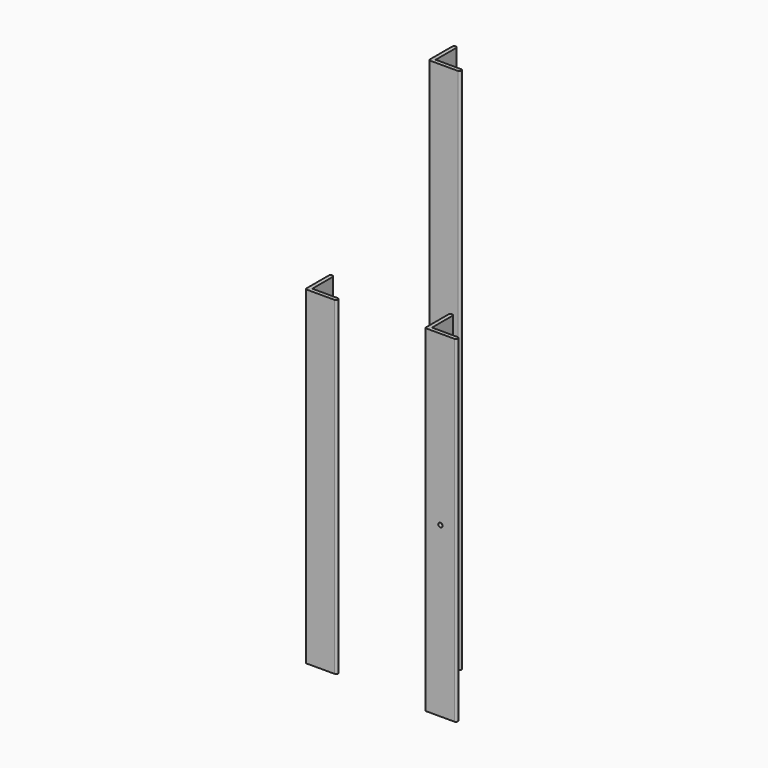
from build123d import *

# Parameters (mm, degrees)
F1_DEPTH = 855
F2_DEPTH = 546.55
F3_DEPTH = 533.85
F4_R     = 3.5
F5_DEPTH = 6.35
F7_DEPTH = 6.35
F8_R     = 3
F8_2_R   = 3
F8_3_R   = 3
F9_R     = 2
F9_2_R   = 2
F9_3_R   = 2


with BuildPart() as f1:
    # F0 (on Top) → F1 (new body)
    with BuildSketch(Plane.XY):
        Polygon((0, 50.8), (0, 0), (50.8, 0), (50.8, 6.35), (6.35, 6.35), (6.35, 50.8), align=None)
    extrude(amount=F1_DEPTH)

    # F8#3
    f8_3_edges = [f1.edges().sort_by_distance(p)[0] for p in [
        (6.35, 50.8, 427.5),
        (0, 50.8, 427.5),
        (50.8, 6.35, 427.5),
        (50.8, 0, 427.5),
    ]]
    fillet(f8_3_edges, radius=F8_3_R)

    # F9#3
    f9_3_edges = [f1.edges().sort_by_distance(p)[0] for p in [
        (0, 0, 427.5),
    ]]
    fillet(f9_3_edges, radius=F9_3_R)


with BuildPart() as f2:
    # F0 (on Top) → F2 (new body)
    with BuildSketch(Plane.XY):
        Polygon((85.049236, -62.953019), (85.049236, -113.753019), (135.849236, -113.753019), (135.849236, -107.403019), (91.399236, -107.403019), (91.399236, -62.953019), align=None)
    extrude(amount=F2_DEPTH)

    # F4 (on face) → F5 (cut, through all)
    with BuildSketch(Plane(origin=(85.049236, 0, 0), x_dir=(0, -1, 0), z_dir=(-1, 0, 0))):
        with Locations((88.753019, 273.275)):
            Circle(F4_R)
    extrude(amount=-F5_DEPTH, mode=Mode.SUBTRACT)

    # F6 (on face) → F7 (cut, through all)
    with BuildSketch(Plane.XZ.offset(113.753019)):
        with BuildLine():
            ThreePointArc((113.549236, 273.275), (110.049236, 276.775), (106.549236, 273.275))
            ThreePointArc((106.549236, 273.275), (110.049236, 269.775), (113.549236, 273.275))
        make_face()
    extrude(amount=-F7_DEPTH, mode=Mode.SUBTRACT)

    # F8#2
    f8_2_edges = [f2.edges().sort_by_distance(p)[0] for p in [
        (135.849236, -113.753019, 273.275),
        (85.049236, -62.953019, 273.275),
        (91.399236, -62.953019, 273.275),
        (135.849236, -107.403019, 273.275),
    ]]
    fillet(f8_2_edges, radius=F8_2_R)

    # F9#2
    f9_2_edges = [f2.edges().sort_by_distance(p)[0] for p in [
        (85.049236, -113.753019, 273.275),
    ]]
    fillet(f9_2_edges, radius=F9_2_R)


with BuildPart() as f3:
    # F0 (on Top) → F3 (new body)
    with BuildSketch(Plane.XY):
        Polygon((-115.199921, -55.351787), (-115.199921, -106.151787), (-64.399921, -106.151787), (-64.399921, -99.801787), (-108.849921, -99.801787), (-108.849921, -55.351787), align=None)
    extrude(amount=F3_DEPTH)

    # F8
    f8_edges = [f3.edges().sort_by_distance(p)[0] for p in [
        (-64.399921, -106.151787, 266.925),
        (-64.399921, -99.801787, 266.925),
        (-108.849921, -55.351787, 266.925),
        (-115.199921, -55.351787, 266.925),
    ]]
    fillet(f8_edges, radius=F8_R)

    # F9
    f9_edges = [f3.edges().sort_by_distance(p)[0] for p in [
        (-115.199921, -106.151787, 266.925),
    ]]
    fillet(f9_edges, radius=F9_R)


solid = Compound([f1.part, f2.part, f3.part])
